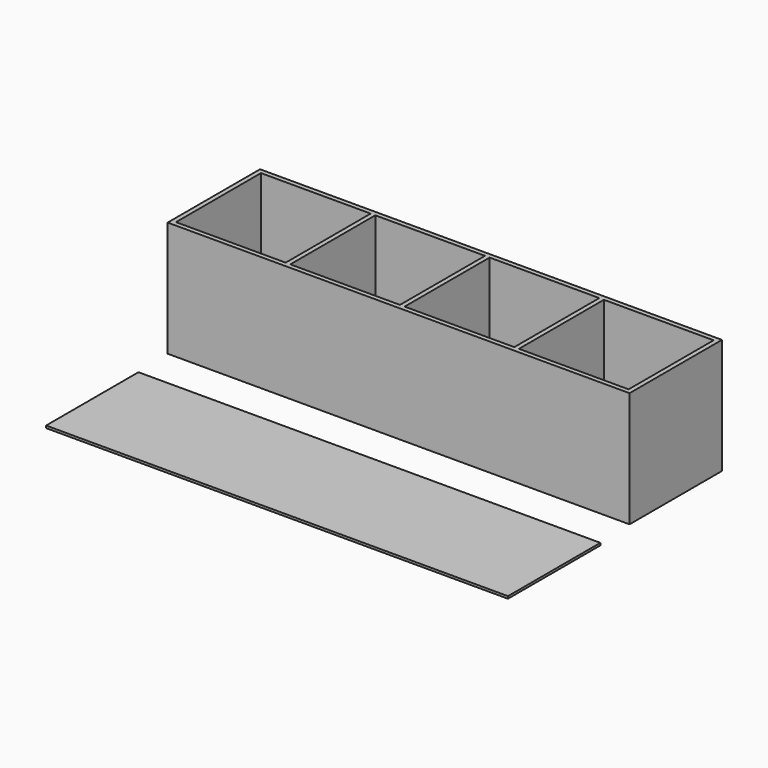
from build123d import *

# Parameters (mm, degrees)
F0_W     = 200
F0_H     = 50
F0_W_2   = 2
F0_H_2   = 46
F1_DEPTH = 50
F0_W_3   = 47.5
F2_DEPTH = 2
F3_W     = 200
F3_H     = 50
F4_DEPTH = 1


with BuildPart() as f1:
    # F0 (on Top) → F1 (new body)
    with BuildSketch(Plane.XY):
        Rectangle(F0_W, F0_H)
        Polygon((-98, -23), (-98, 23), (-50.5, 23), (-48.5, 23), (-1, 23), (1, 23), (48.5, 23), (50.5, 23), (98, 23), (98, -23), (50.5, -23), (48.5, -23), (1, -23), (-1, -23), (-48.5, -23), (-50.5, -23), align=None, mode=Mode.SUBTRACT)
        with Locations((-49.5, 0)):
            Rectangle(F0_W_2, F0_H_2)
        Rectangle(F0_W_2, F0_H_2)
        with Locations((49.5, 0)):
            Rectangle(F0_W_2, F0_H_2)
    extrude(amount=F1_DEPTH)

    # F0 (on Top) → F2 (join)
    with BuildSketch(Plane.XY):
        with Locations((-74.25, 0)):
            Rectangle(F0_W_3, F0_H_2)
        with Locations((-24.75, 0)):
            Rectangle(F0_W_3, F0_H_2)
        with Locations((24.75, 0)):
            Rectangle(F0_W_3, F0_H_2)
        with Locations((74.25, 0)):
            Rectangle(F0_W_3, F0_H_2)
    extrude(amount=F2_DEPTH)


with BuildPart() as f4:
    # F3 (on Top) → F4 (new body)
    with BuildSketch(Plane.XY):
        with Locations((1.938558, -68.229217)):
            Rectangle(F3_W, F3_H)
    extrude(amount=F4_DEPTH)


solid = Compound([f1.part, f4.part])
